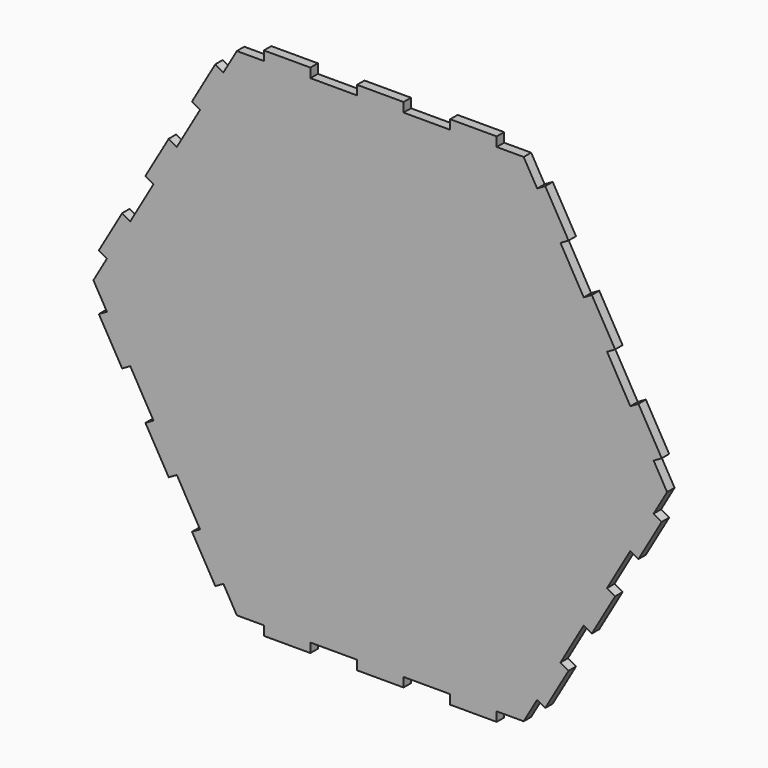
from build123d import *

# Parameters (mm, degrees)
F1_DEPTH = 3


with BuildPart() as f1:
    # F0 (on Front) → F1 (new body)
    with BuildSketch(Plane.XZ):
        Polygon((-37.5, 80), (-46.188022, 80), (-50.532032, 72.475953), (-53.130109, 73.975953), (-60.630109, 60.985572), (-58.032032, 59.485572), (-65.532032, 46.495191), (-68.130109, 47.995191), (-71.880109, 41.5), (-75.630109, 35.004809), (-73.032032, 33.504809), (-80.532032, 20.514428), (-83.130109, 22.014428), (-90.630109, 9.024047), (-88.032032, 7.524047), (-92.376043, 0), (-88.032032, -7.524047), (-90.630109, -9.024047), (-83.130109, -22.014428), (-80.532032, -20.514428), (-73.032032, -33.504809), (-75.630109, -35.004809), (-71.880109, -41.5), (-68.130109, -47.995191), (-65.532032, -46.495191), (-58.032032, -59.485572), (-60.630109, -60.985572), (-53.130109, -73.975953), (-50.532032, -72.475953), (-46.188022, -80), (-37.5, -80), (-37.5, -83), (-22.5, -83), (-22.5, -80), (-7.5, -80), (-7.5, -83), (0, -83), (7.5, -83), (7.5, -80), (22.5, -80), (22.5, -83), (37.5, -83), (37.5, -80), (46.188022, -80), (50.532032, -72.475953), (53.130109, -73.975953), (60.630109, -60.985572), (58.032032, -59.485572), (65.532032, -46.495191), (68.130109, -47.995191), (71.880109, -41.5), (75.630109, -35.004809), (73.032032, -33.504809), (80.532032, -20.514428), (83.130109, -22.014428), (90.630109, -9.024047), (88.032032, -7.524047), (92.376043, 0), (88.032032, 7.524047), (90.630109, 9.024047), (83.130109, 22.014428), (80.532032, 20.514428), (73.032032, 33.504809), (75.630109, 35.004809), (71.880109, 41.5), (68.130109, 47.995191), (65.532032, 46.495191), (58.032032, 59.485572), (60.630109, 60.985572), (53.130109, 73.975953), (50.532032, 72.475953), (46.188022, 80), (37.5, 80), (37.5, 83), (22.5, 83), (22.5, 80), (7.5, 80), (7.5, 83), (0, 83), (-7.5, 83), (-7.5, 80), (-22.5, 80), (-22.5, 83), (-37.5, 83), align=None)
        Polygon((-37.5, 80), (-46.188022, 80), (-50.532032, 72.475953), (-53.130109, 73.975953), (-60.630109, 60.985572), (-58.032032, 59.485572), (-65.532032, 46.495191), (-68.130109, 47.995191), (-71.880109, 41.5), (-75.630109, 35.004809), (-73.032032, 33.504809), (-80.532032, 20.514428), (-83.130109, 22.014428), (-90.630109, 9.024047), (-88.032032, 7.524047), (-92.376043, 0), (-88.032032, -7.524047), (-90.630109, -9.024047), (-83.130109, -22.014428), (-80.532032, -20.514428), (-73.032032, -33.504809), (-75.630109, -35.004809), (-71.880109, -41.5), (-68.130109, -47.995191), (-65.532032, -46.495191), (-58.032032, -59.485572), (-60.630109, -60.985572), (-53.130109, -73.975953), (-50.532032, -72.475953), (-46.188022, -80), (-37.5, -80), (-37.5, -83), (-22.5, -83), (-22.5, -80), (-7.5, -80), (-7.5, -83), (0, -83), (7.5, -83), (7.5, -80), (22.5, -80), (22.5, -83), (37.5, -83), (37.5, -80), (46.188022, -80), (50.532032, -72.475953), (53.130109, -73.975953), (60.630109, -60.985572), (58.032032, -59.485572), (65.532032, -46.495191), (68.130109, -47.995191), (71.880109, -41.5), (75.630109, -35.004809), (73.032032, -33.504809), (80.532032, -20.514428), (83.130109, -22.014428), (90.630109, -9.024047), (88.032032, -7.524047), (92.376043, 0), (88.032032, 7.524047), (90.630109, 9.024047), (83.130109, 22.014428), (80.532032, 20.514428), (73.032032, 33.504809), (75.630109, 35.004809), (71.880109, 41.5), (68.130109, 47.995191), (65.532032, 46.495191), (58.032032, 59.485572), (60.630109, 60.985572), (53.130109, 73.975953), (50.532032, 72.475953), (46.188022, 80), (37.5, 80), (37.5, 83), (22.5, 83), (22.5, 80), (7.5, 80), (7.5, 83), (0, 83), (-7.5, 83), (-7.5, 80), (-22.5, 80), (-22.5, 83), (-37.5, 83), align=None)
    extrude(amount=F1_DEPTH)


solid = f1.part
